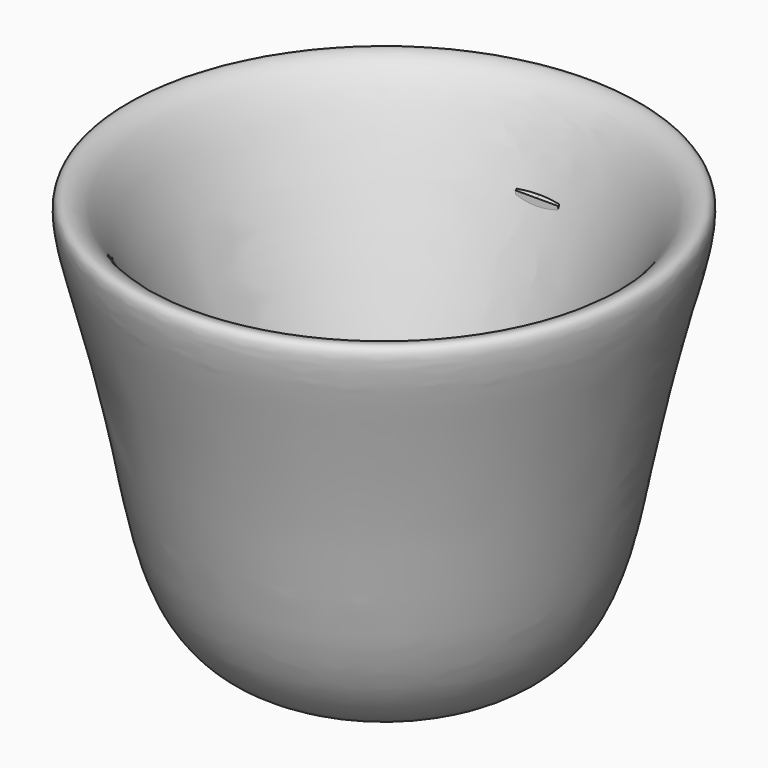
from build123d import *

# Parameters (mm, degrees)
F3_DEPTH = 2.5


with BuildPart() as f1:
    # F0 (on Front) → F1 (revolve)
    with BuildSketch(Plane.XZ):
        with BuildLine():
            add(Edge.make_bspline(
                [(0, -14.1755682004), (3.6428921486, -14.6396440455), (10.6229268276, -15.7818333547), (10.5407087585, -9.7470313801), (23.6961993487, 22.3865762027), (27.6926449669, 28.1066607062), (31.5943172886, 28.6218533964), (27.5546477716, 15.3520170337), (24.5252564696, 0.6627683296), (20.6550147003, -19.6441016888), (6.1911477291, -21.0280081463), (0, -21.4202669538)],
                knots=[0, 0, 0, 0, 0.098793616, 0.1676396267, 0.358514064, 0.443627332, 0.4851290266, 0.5920481974, 0.7262810573, 0.8620065457, 1, 1, 1, 1], degree=3))
            Line((0, -14.1755682004), (0, -21.4202669538))
        make_face()
    revolve(axis=Axis((0, 0, -17.7979175771), (0, 0, -1)))

    # F2 (on Right) → F3 (join, symmetric)
    with BuildSketch(Plane.YZ):
        with BuildLine():
            add(Edge.make_bspline(
                [(22.430639714, 18.8378542662), (25.749944291, 20.7757347172), (31.7590700135, 24.2839898337), (39.9366924137, 15.8120214187), (29.1385150347, 7.232059723), (22.2364384681, 1.747842296)],
                knots=[0, 0, 0, 0, 0.3080779427, 0.5577310086, 1, 1, 1, 1], degree=3))
            Line((22.430639714, 18.8378542662), (22.2364384681, 17.0946232975))
            add(Edge.make_bspline(
                [(22.2364384681, 17.0946232975), (24.5073390209, 18.4480096099), (28.6887447144, 20.9399977444), (36.9861828349, 15.9597630647), (27.2423076849, 8.3854253405), (20.9042411298, 3.458570689)],
                knots=[0, 0, 0, 0, 0.2935202888, 0.5404584562, 1, 1, 1, 1], degree=3))
            Line((20.9042411298, 3.458570689), (22.2364384681, 1.747842296))
        make_face()
    extrude(amount=F3_DEPTH, both=True)


solid = f1.part
